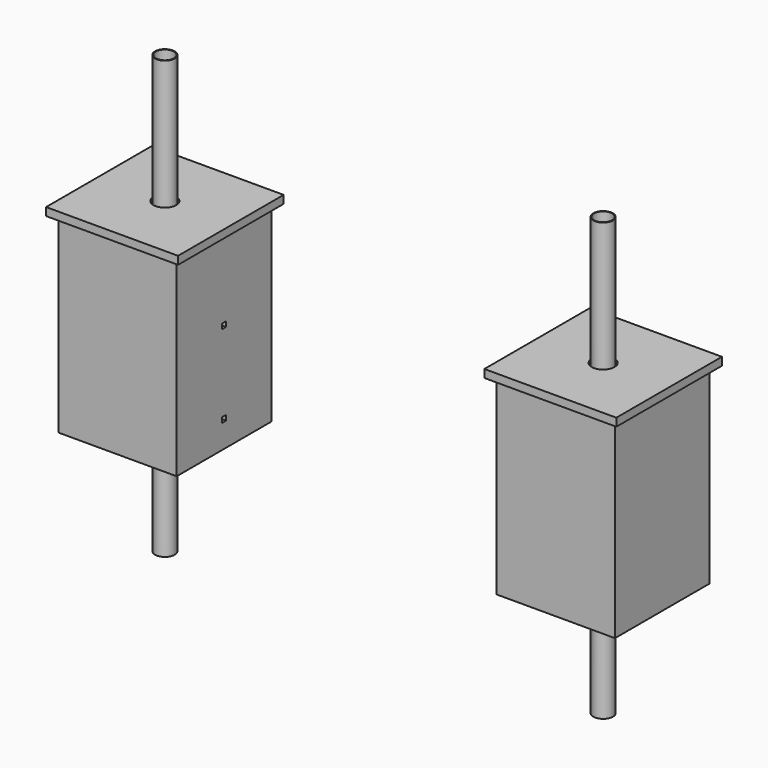
from build123d import *

# Parameters (mm, degrees)
F0_W           = 1320.8
F0_H           = 1320.8
F0_W_2         = 711.2
F0_H_2         = 711.2
F1_DEPTH       = 2133.6
F2_W           = 1473.2
F2_H           = 1473.2
F3_DEPTH       = 88.9
F4_R           = 127
F5_DEPTH       = 88.9
F7_W           = 57.15
F7_H           = 57.15
F8_DEPTH       = 2090.7375
F8_DEPTH_BACK  = 2090.7375
F9_R           = 109.5375
F9_R_2         = 101.3587
F10_DEPTH      = 3657.6
F10_DEPTH_BACK = 1219.2


with BuildPart() as f1:
    # F0 (on Top) → F1 (new body)
    with BuildSketch(Plane.XY):
        with Locations((-2446.3375, 0)):
            Rectangle(F0_W, F0_H)
        with Locations((-2446.3375, 0)):
            Rectangle(F0_W_2, F0_H_2, mode=Mode.SUBTRACT)
    extrude(amount=F1_DEPTH)


with BuildPart() as f1b:
    # F0 (on Top) → F1, piece 2 (new body)
    with BuildSketch(Plane.XY):
        with Locations((2446.3375, 0)):
            Rectangle(F0_W, F0_H)
        with Locations((2446.3375, 0)):
            Rectangle(F0_W_2, F0_H_2, mode=Mode.SUBTRACT)
    extrude(amount=F1_DEPTH)


with BuildPart() as f3:
    # F2 (on face) → F3 (new body)
    with BuildSketch(Plane.XY.offset(2133.6)):
        with Locations((-2446.3375, 0)):
            Rectangle(F2_W, F2_H)
    extrude(amount=F3_DEPTH)

    # F4 (on face) → F5 (cut, through all)
    with BuildSketch(Plane.XY.offset(2222.5)):
        with Locations((-2446.3375, 0)):
            Circle(F4_R)
    extrude(amount=-F5_DEPTH, mode=Mode.SUBTRACT)


with BuildPart() as f6_1:
    # F6: instance of F3
    add(f3.part.mirror(Plane.YZ))


with BuildPart() as f8_tool:
    # F7 (on Right) → F8 (new body, two sides)
    with BuildSketch(Plane.YZ) as f8_sk:
        with Locations((0, 295.275)):
            Rectangle(F7_W, F7_H)
        with Locations((0, 1216.025)):
            Rectangle(F7_W, F7_H)
    extrude(amount=-F8_DEPTH)
    extrude(f8_sk.sketch, amount=F8_DEPTH_BACK)


with BuildPart() as f1_1:
    add(f1.part)

    # F8: cut by f8_tool
    add(f8_tool.part, mode=Mode.SUBTRACT)


with BuildPart() as f1b_1:
    add(f1b.part)

    # F8: cut by f8_tool
    add(f8_tool.part, mode=Mode.SUBTRACT)


with BuildPart() as f10:
    # F9 (on Top) → F10 (new body, two sides)
    with BuildSketch(Plane.XY) as f10_sk:
        with Locations((-2446.3375, 0)):
            Circle(F9_R)
        with Locations((-2446.3375, 0)):
            Circle(F9_R_2, mode=Mode.SUBTRACT)
    extrude(amount=F10_DEPTH)
    extrude(f10_sk.sketch, amount=-F10_DEPTH_BACK)


with BuildPart() as f11_1:
    # F11: instance of F10
    add(f10.part.mirror(Plane.YZ))


solid = Compound([f3.part, f6_1.part, f1_1.part, f1b_1.part, f10.part, f11_1.part])
